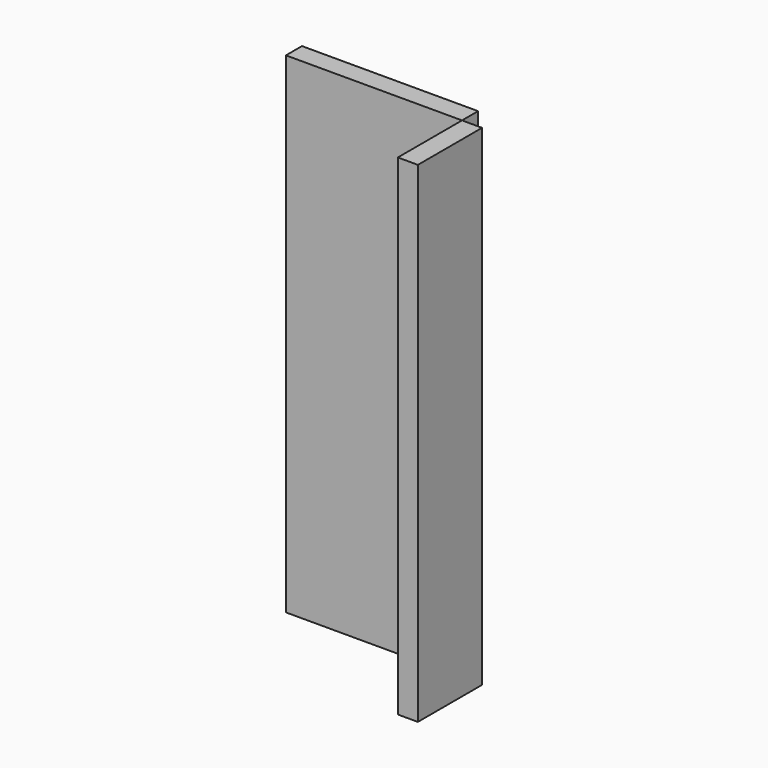
from build123d import *

# Parameters (mm, degrees)
F0_W     = 790
F0_H     = 2200
F1_DEPTH = 90
F3_W     = 360
F3_H     = 2200
F4_DEPTH = 90


with BuildPart() as f1:
    # F0 (on Front) → F1 (new body)
    with BuildSketch(Plane.XZ):
        with Locations((0.417999, 414.500552)):
            Rectangle(F0_W, F0_H)
    extrude(amount=-F1_DEPTH)


with BuildPart() as f4:
    # F3 (on face) → F4 (new body)
    with BuildSketch(Plane.YZ.offset(395.417999)):
        with Locations((-180, 414.500552)):
            Rectangle(F3_W, F3_H)
    extrude(amount=F4_DEPTH)


solid = Compound([f1.part, f4.part])
